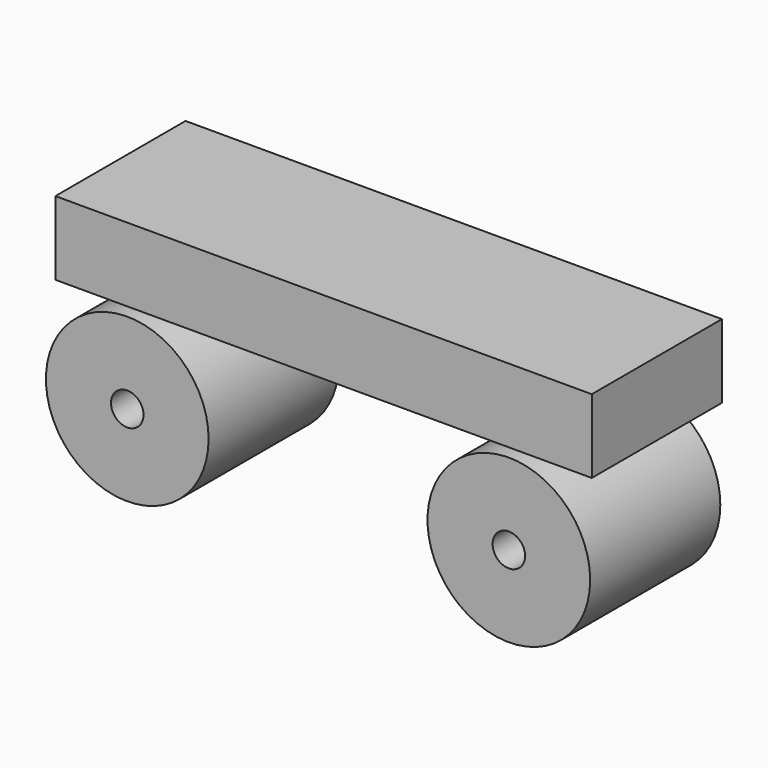
from build123d import *

# Parameters (mm, degrees)
F0_W     = 83.751477
F0_H     = 11.512232
F0_R     = 12.7
F0_R_2   = 2.54
F1_DEPTH = 25.4


with BuildPart() as f1:
    # F0 (on Front) → F1 (new body)
    with BuildSketch(Plane.XZ):
        with Locations((-0.287805, 16.836637)):
            Rectangle(F0_W, F0_H)
        with Locations((-30.939119, -3.02196)):
            Circle(F0_R)
        with Locations((-30.939119, -3.02196)):
            Circle(F0_R_2, mode=Mode.SUBTRACT)
        with Locations((28.636672, -3.02196)):
            Circle(F0_R)
        with Locations((28.636672, -3.02196)):
            Circle(F0_R_2, mode=Mode.SUBTRACT)
    extrude(amount=F1_DEPTH)


solid = f1.part
